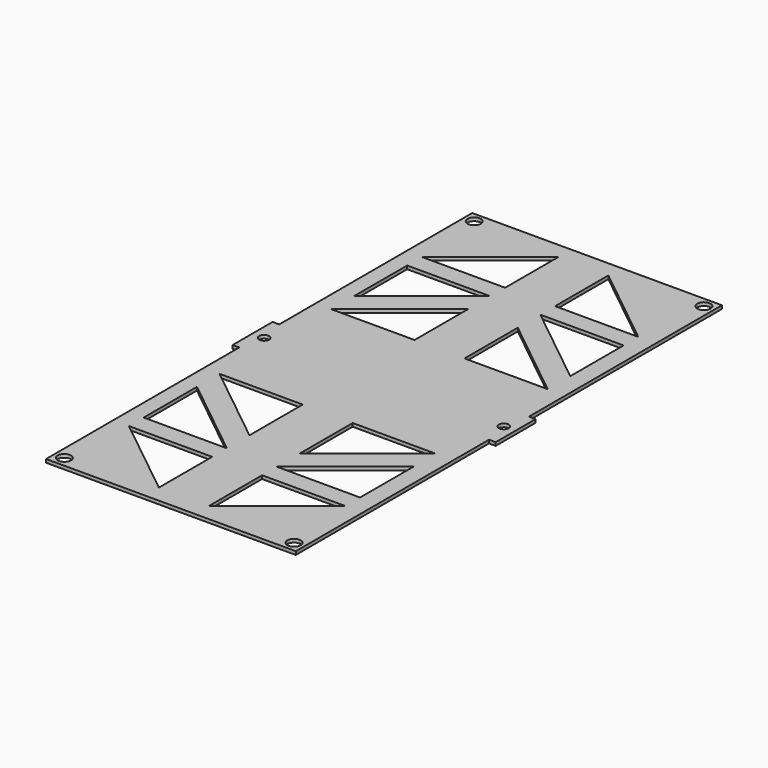
from build123d import *

# Parameters (mm, degrees)
F0_R     = 2
F0_R_2   = 1.5
F1_DEPTH = 1


with BuildPart() as f1:
    # F0 (on Top) → F1 (new body)
    with BuildSketch(Plane.XY):
        Polygon((36.9193002582, 80.5819368362), (-38.0806997418, 80.5819368362), (-38.0806997418, 20.6310992315), (-38.0806997418, 15.5746781826), (-38.0806997418, 8.1310992315), (-38.0806997418, 0.5819368409), (-38.0806997418, -6.8689007685), (-38.0806997418, -14.4253218174), (-38.0806997418, -19.3689007685), (-38.0806997418, -79.4180631638), (36.9193002582, -79.4180631638), (36.9193002582, -19.3689007685), (36.9193002582, -14.4253218174), (36.9193002582, -6.8689007685), (36.9193002582, 0.5819368362), (36.9193002582, 8.1310992315), (36.9193002582, 15.5746781826), (36.9193002582, 20.6310992315), align=None)
        with Locations((-35.0806997418, -76.3197383732)):
            Circle(F0_R, mode=Mode.SUBTRACT)
        Polygon((-33.3470307291, -54.2283378169), (-8.3470307291, -54.2283378169), (-8.3470307291, -74.2283378169), align=None, mode=Mode.SUBTRACT)
        Polygon((-33.3470307291, -48.6858622357), (-33.3470307291, -28.6858622357), (-8.3470307291, -48.6858622357), align=None, mode=Mode.SUBTRACT)
        Polygon((-33.3470307291, -20.2283378169), (-8.3470307291, -20.2283378169), (-8.3470307291, -40.2283378169), align=None, mode=Mode.SUBTRACT)
        Polygon((6.6529692709, -74.2283378169), (6.6529692709, -54.2283378169), (31.6529692709, -54.2283378169), align=None, mode=Mode.SUBTRACT)
        with Locations((33.9193002582, -76.3197383732)):
            Circle(F0_R, mode=Mode.SUBTRACT)
        Polygon((31.6529692709, -48.6858622357), (6.6529692709, -48.6858622357), (31.6529692709, -28.6858622357), align=None, mode=Mode.SUBTRACT)
        Polygon((6.6529692709, -40.2283378169), (6.6529692709, -20.2283378169), (31.6529692709, -20.2283378169), align=None, mode=Mode.SUBTRACT)
        with BuildLine():
            ThreePointArc((-35.0806997418, 0.5819368362), (-36.5806997442, -0.9180631638), (-38.0806997418, 0.5819368409))
            ThreePointArc((-38.0806997418, 0.5819368409), (-36.5806997395, 2.0819368362), (-35.0806997418, 0.5819368362))
        make_face(mode=Mode.SUBTRACT)
        Polygon((-8.3470307291, 41.7716621831), (-8.3470307291, 21.7716621831), (-33.3470307291, 21.7716621831), align=None, mode=Mode.SUBTRACT)
        Polygon((-8.3470307291, 50.2291866019), (-33.3470307291, 30.2291866019), (-33.3470307291, 50.2291866019), align=None, mode=Mode.SUBTRACT)
        with Locations((-35.0806997418, 77.5819368362)):
            Circle(F0_R, mode=Mode.SUBTRACT)
        Polygon((-8.3470307291, 55.7716621831), (-33.3470307291, 55.7716621831), (-8.3470307291, 75.7716621831), align=None, mode=Mode.SUBTRACT)
        Polygon((31.6529692709, 21.7716621831), (6.6529692709, 21.7716621831), (6.6529692709, 41.7716621831), align=None, mode=Mode.SUBTRACT)
        Polygon((31.6529692709, 50.2291866019), (31.6529692709, 30.2291866019), (6.6529692709, 50.2291866019), align=None, mode=Mode.SUBTRACT)
        with Locations((35.4193002582, 0.5819368362)):
            Circle(F0_R_2, mode=Mode.SUBTRACT)
        Polygon((31.6529692709, 55.7716621831), (6.6529692709, 55.7716621831), (6.6529692709, 75.7716621831), align=None, mode=Mode.SUBTRACT)
        with Locations((33.9193002582, 77.5819368362)):
            Circle(F0_R, mode=Mode.SUBTRACT)
        Polygon((38.9193002582, 8.1310992315), (36.9193002582, 8.1310992315), (36.9193002582, 0.5819368362), (36.9193002582, -6.8689007685), (38.9193002582, -6.8689007685), (38.9193002582, -4.3689007685), (38.9193002582, 5.6310992315), align=None)
        Polygon((-38.0806997418, 0.5819368409), (-38.0806997418, 8.1310992315), (-40.0806997418, 8.1310992315), (-40.0806997418, 5.6310992315), (-40.0806997418, -4.3689007685), (-40.0806997418, -6.8689007685), (-38.0806997418, -6.8689007685), align=None)
    extrude(amount=F1_DEPTH)


solid = f1.part
